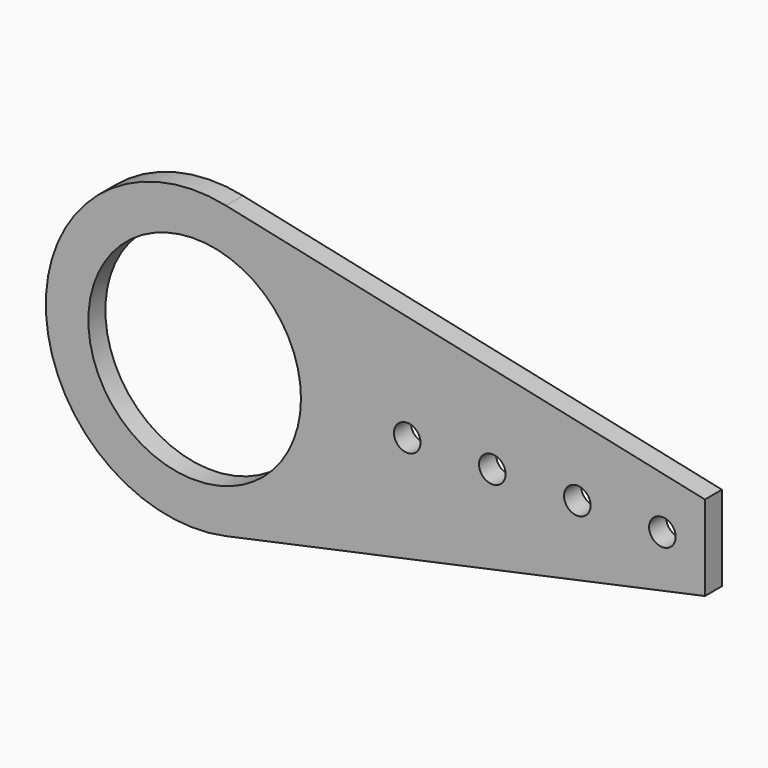
from build123d import *

# Parameters (mm, degrees)
F0_R     = 31.75
F0_R_2   = 3.96875
F1_DEPTH = 6.35


with BuildPart() as f1:
    # F0 (on Front) → F1 (new body)
    with BuildSketch(Plane.XZ):
        with BuildLine():
            ThreePointArc((9.34317, -43.456964), (34.576773, -27.932943), (44.45, 0))
            ThreePointArc((44.45, 0), (34.576773, 27.932943), (9.34317, 43.456964))
            ThreePointArc((9.34317, 43.456964), (-44.45, 0), (9.34317, -43.456964))
        make_face()
        Circle(F0_R, mode=Mode.SUBTRACT)
        with BuildLine():
            ThreePointArc((9.34317, 43.456964), (34.576773, 27.932943), (44.45, 0))
            ThreePointArc((44.45, 0), (34.576773, -27.932943), (9.34317, -43.456964))
            Line((9.34317, -43.456964), (152.4, -12.7))
            Line((152.4, -12.7), (152.4, 0))
            Line((152.4, 0), (152.4, 12.7))
            Line((152.4, 12.7), (9.34317, 43.456964))
        make_face()
        with Locations((63.5, 0)):
            Circle(F0_R_2, mode=Mode.SUBTRACT)
        with Locations((88.9, 0)):
            Circle(F0_R_2, mode=Mode.SUBTRACT)
        with Locations((114.3, 0)):
            Circle(F0_R_2, mode=Mode.SUBTRACT)
        with Locations((139.7, 0)):
            Circle(F0_R_2, mode=Mode.SUBTRACT)
    extrude(amount=F1_DEPTH)


solid = f1.part
